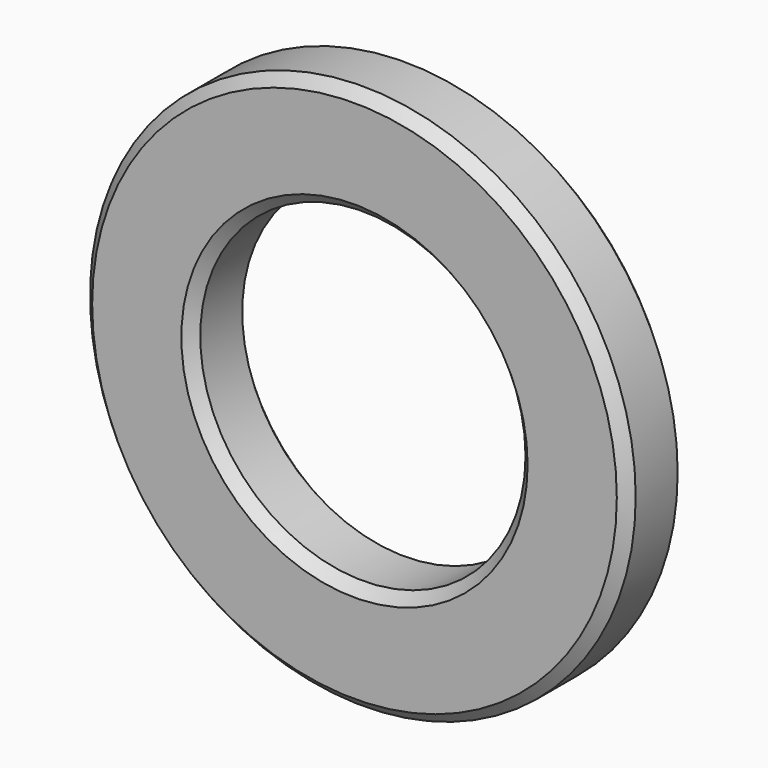
from build123d import *

# Parameters (mm, degrees)
F0_R     = 13
F0_R_2   = 7.75
F1_DEPTH = 3.5
F2_SIZE2 = 0.5
F2_SIZE  = 0.5
F3_SIZE  = 0.5


with BuildPart() as f1:
    # F0 (on Front) → F1 (new body)
    with BuildSketch(Plane.XZ):
        Circle(F0_R)
        Circle(F0_R_2, mode=Mode.SUBTRACT)
    extrude(amount=F1_DEPTH)

    # F2
    f2_edges = [f1.edges().sort_by_distance(p)[0] for p in [
        (-13, -3.5, 0),
        (-13, 0, 0),
    ]]
    chamfer(f2_edges, length=F2_SIZE, length2=F2_SIZE2)

    # F3
    f3_edges = [f1.edges().sort_by_distance(p)[0] for p in [
        (-7.75, 0, 0),
        (-7.75, -3.5, 0),
    ]]
    chamfer(f3_edges, length=F3_SIZE)


solid = f1.part
